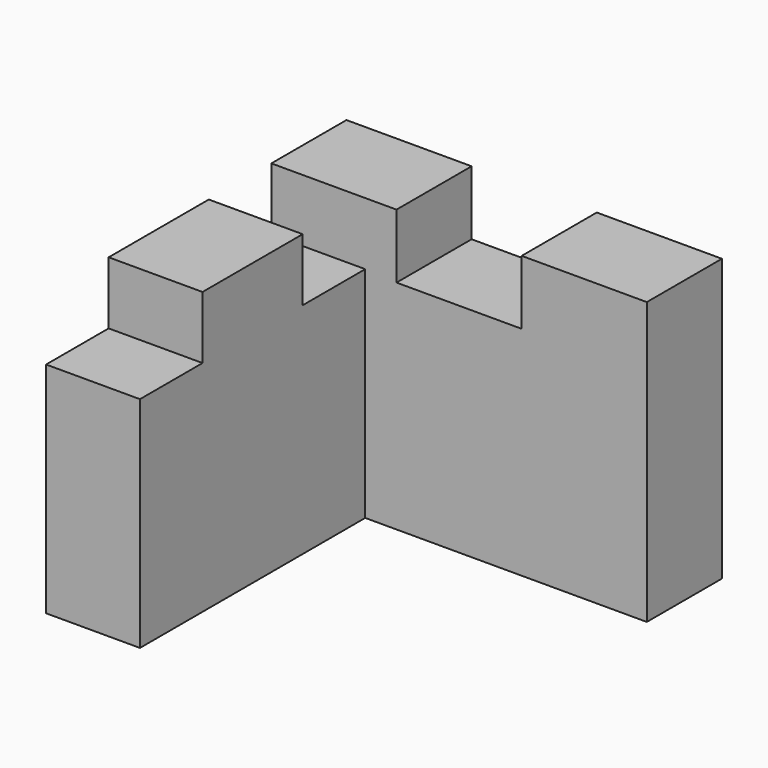
from build123d import *

# Parameters (mm, degrees)
F0_W     = 152.4
F0_H     = 114.3
F1_DEPTH = 152.4
F2_W     = 114.3
F2_H     = 114.3
F3_DEPTH = 114.3
F4_W     = 38.1
F4_H     = 25.4
F5_DEPTH = 31.75
F6_W     = 31.75
F6_H     = 25.4
F7_DEPTH = 38.101
F8_W     = 50.8
F8_H     = 26.0741613155
F9_DEPTH = 38.101


with BuildPart() as f1:
    # F0 (on Front) → F1 (new body)
    with BuildSketch(Plane.XZ):
        Rectangle(F0_W, F0_H)
    extrude(amount=F1_DEPTH)

    # F2 (on face) → F3 (cut)
    with BuildSketch(Plane.XZ.offset(152.4)):
        with Locations((19.05, 0)):
            Rectangle(F2_W, F2_H)
    extrude(amount=-F3_DEPTH, mode=Mode.SUBTRACT)

    # F4 (on face) → F5 (cut)
    with BuildSketch(Plane.XZ.offset(152.4)):
        with Locations((-57.15, 44.45)):
            Rectangle(F4_W, F4_H)
    extrude(amount=-F5_DEPTH, mode=Mode.SUBTRACT)

    # F6 (on face) → F7 (cut, through all)
    with BuildSketch(Plane.YZ.offset(-38.1)):
        with Locations((-53.975, 44.45)):
            Rectangle(F6_W, F6_H)
    extrude(amount=-F7_DEPTH, mode=Mode.SUBTRACT)

    # F8 (on face) → F9 (cut, through all)
    with BuildSketch(Plane.XZ.offset(38.1)):
        with Locations((0, 44.1129193423)):
            Rectangle(F8_W, F8_H)
    extrude(amount=-F9_DEPTH, mode=Mode.SUBTRACT)


solid = f1.part
